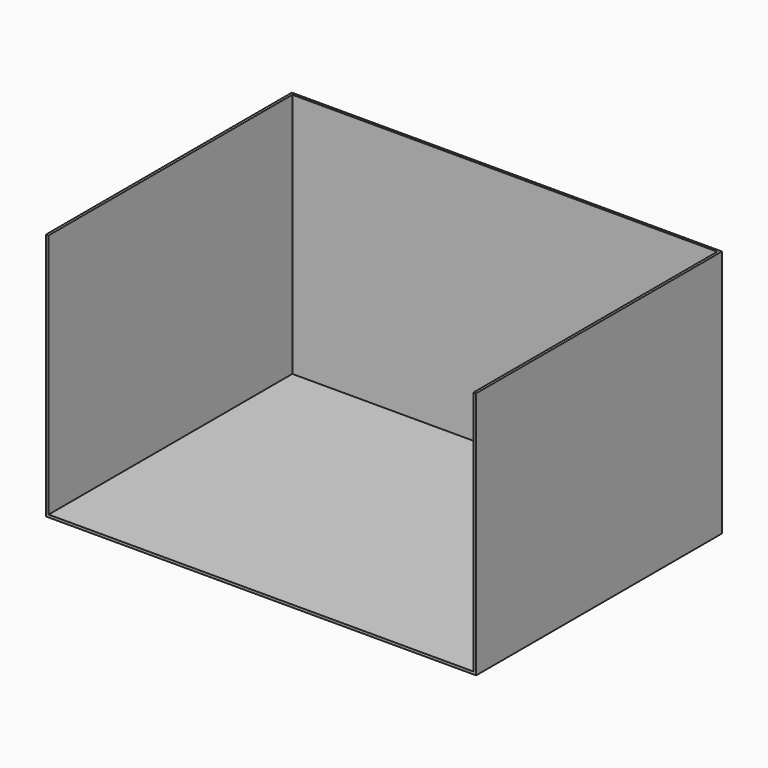
from build123d import *

# Parameters (mm, degrees)
F0_W     = 4267.2
F0_H     = 3048
F1_DEPTH = 25.4
F3_W     = 25.4
F3_H     = 3022.6
F4_DEPTH = 2438.4


with BuildPart() as f1:
    # F0 (on Top) → F1 (new body)
    with BuildSketch(Plane.XY):
        with Locations((2133.6, -1524)):
            Rectangle(F0_W, F0_H)
    extrude(amount=F1_DEPTH)

    # F3 (on face) → F4 (join)
    with BuildSketch(Plane.XY.offset(25.4)):
        Polygon((4267.2, 0), (0, 0), (0, -25.4), (25.4, -25.4), (4241.8, -25.4), (4267.2, -25.4), align=None)
        with Locations((12.7, -1536.7)):
            Rectangle(F3_W, F3_H)
        with Locations((4254.5, -1536.7)):
            Rectangle(F3_W, F3_H)
    extrude(amount=F4_DEPTH)


solid = f1.part
